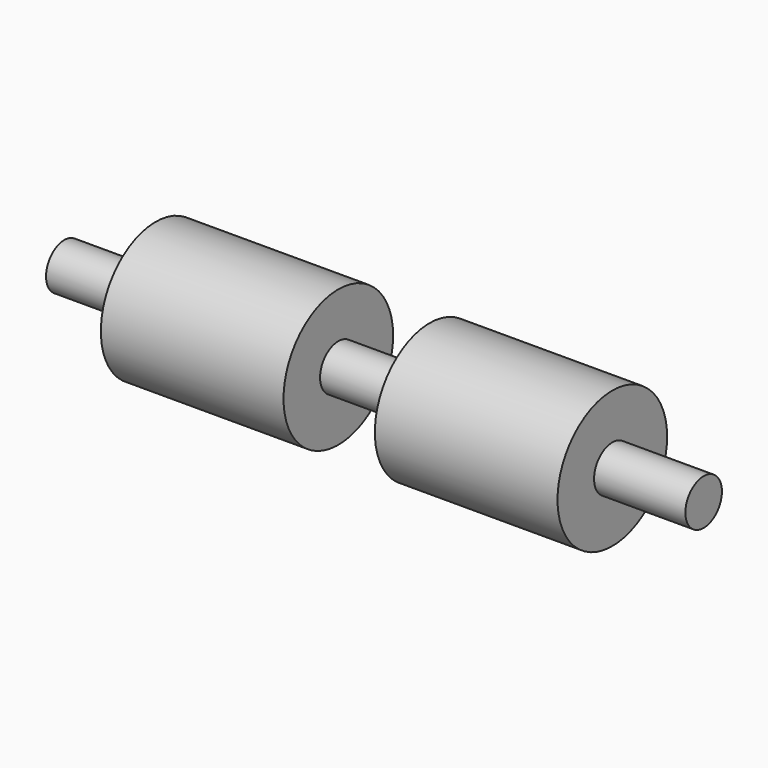
from build123d import *


with BuildPart() as f1:
    # F0 (on Top) → F1 (revolve)
    with BuildSketch(Plane.XY):
        Polygon((100, 75), (-100, 75), (-100, 25), (-200, 25), (-200, 75), (-400, 75), (-400, 25), (-500, 25), (-500, 0), (-362.5, 0), (-362.5, 12.5), (-337.5, 12.5), (-337.5, 0), (200, 0), (200, 25), (100, 25), align=None)
    revolve(axis=Axis((-68.75, 0, 0), (1, 0, 0)))


solid = f1.part
